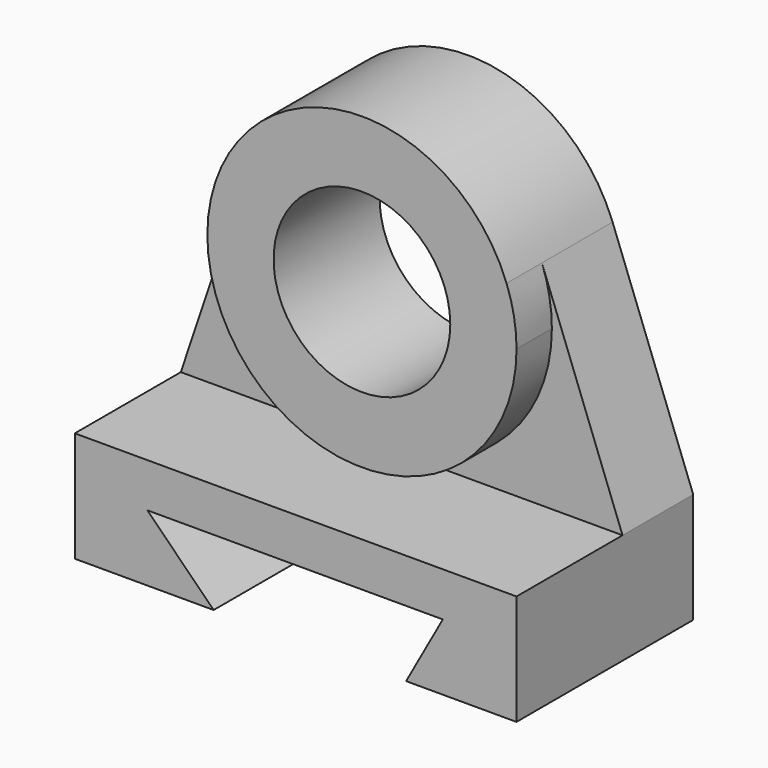
from build123d import *

# Parameters (mm, degrees)
F1_DEPTH = 127
F2_DEPTH = 50.8
F0_R     = 50.8
F3_DEPTH = 25.4
F4_DEPTH = 50.8


with BuildPart() as f1:
    # F0 (on Front) → F1 (new body)
    with BuildSketch(Plane.XZ):
        Polygon((254, 0), (0, 0), (0, -63.5), (79.8352242538, -63.5), (41.7352242538, -25.4), (211.6168698438, -25.4), (190.5, -63.5), (254, -63.5), align=None)
    extrude(amount=F1_DEPTH)

    # F0 (on Front) → F2 (join)
    with BuildSketch(Plane.XZ):
        with BuildLine():
            Line((40.1998028961, 119.7350906188), (0, 0))
            Line((0, 0), (254, 0))
            Line((254, 0), (207.6520293862, 122.8259365118))
            ThreePointArc((207.6520293862, 122.8259365118), (211.9338340509, 107.391873178), (213.3767146031, 91.44))
            ThreePointArc((213.3767146031, 91.44), (110.1415733543, 3.7033843519), (40.1998028961, 119.7350906188))
        make_face()
        with BuildLine():
            Line((40.1998028961, 119.7350906188), (0, 0))
            Line((0, 0), (254, 0))
            Line((254, 0), (207.6520293862, 122.8259365118))
            ThreePointArc((207.6520293862, 122.8259365118), (211.9338340509, 107.391873178), (213.3767146031, 91.44))
            ThreePointArc((213.3767146031, 91.44), (110.1415733543, 3.7033843519), (40.1998028961, 119.7350906188))
        make_face()
    extrude(amount=F2_DEPTH)

    # F0 (on Front) → F3 (join)
    with BuildSketch(Plane.XZ):
        with BuildLine():
            ThreePointArc((207.6520293862, 122.8259365118), (122.8360711229, 180.3248597286), (40.1998028961, 119.7350906188))
            ThreePointArc((40.1998028961, 119.7350906188), (110.1415733543, 3.7033843519), (213.3767146031, 91.44))
            ThreePointArc((213.3767146031, 91.44), (211.9338340509, 107.391873178), (207.6520293862, 122.8259365118))
        make_face()
        with Locations((124.4767146031, 91.44)):
            Circle(F0_R, mode=Mode.SUBTRACT)
    extrude(amount=F3_DEPTH)

    # F4 (add): a face of the model
    f4_faces = [f1.faces().sort_by_distance(p)[0] for p in [
        (122.8824755281, -25.4, 177.8108162462),
    ]]
    extrude(f4_faces, amount=F4_DEPTH)


solid = f1.part
